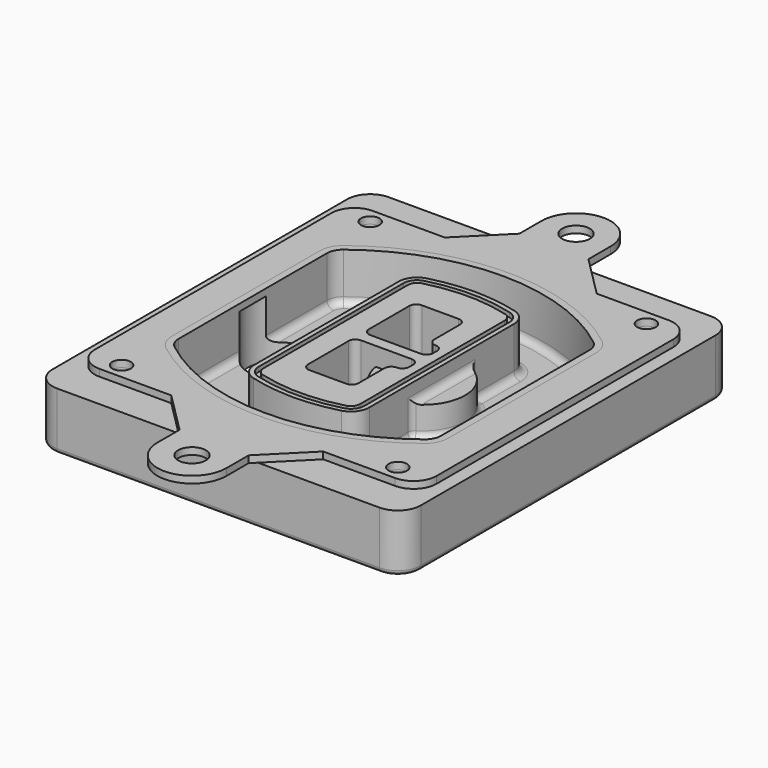
from build123d import *

# Parameters (mm, degrees)
F0_R      = 4
F1_DEPTH  = 25
F2_DEPTH  = 3
F3_DEPTH  = 18
F5_DEPTH  = 21
F6_DEPTH  = 2
F8_DEPTH  = 20
F9_DEPTH  = 16
F10_DEPTH = 25
F7_R      = 6
F7_R_2    = 4
F11_DEPTH = 6
F13_DEPTH = 9
F14_R     = 3
F15_R     = 2
F16_R     = 6
F16_R_2   = 4
F17_DEPTH = 3


with BuildPart() as f1:
    # F0 (on Top) → F1 (new body)
    with BuildSketch(Plane.XY):
        with BuildLine():
            ThreePointArc((-80, -80), (-77.0710678119, -87.0710678119), (-70, -90))
            Line((-70, -90), (70, -90))
            ThreePointArc((70, -90), (77.0710678119, -87.0710678119), (80, -80))
            Line((80, -80), (80, 80))
            ThreePointArc((80, 80), (77.0710678119, 87.0710678119), (70, 90))
            Line((70, 90), (-70, 90))
            ThreePointArc((-70, 90), (-77.0710678119, 87.0710678119), (-80, 80))
            Line((-80, 80), (-80, -80))
        make_face()
        with Locations((-60, -67.5)):
            Circle(F0_R, mode=Mode.SUBTRACT)
        with Locations((60, -67.5)):
            Circle(F0_R, mode=Mode.SUBTRACT)
        with Locations((-60, 67.5)):
            Circle(F0_R, mode=Mode.SUBTRACT)
        with BuildLine():
            ThreePointArc((-64, 40.2934422872), (-62.5820384798, 46.4328484224), (-58.6153846154, 51.3286200352))
            ThreePointArc((-58.6153846154, 51.3286200352), (0, 71.5), (58.6153846154, 51.3286200352))
            ThreePointArc((58.6153846154, 51.3286200352), (62.5820384798, 46.4328484224), (64, 40.2934422872))
            Line((64, 40.2934422872), (64, -40.2934422872))
            ThreePointArc((64, -40.2934422872), (62.5820384798, -46.4328484224), (58.6153846154, -51.3286200352))
            ThreePointArc((58.6153846154, -51.3286200352), (0, -71.5), (-58.6153846154, -51.3286200352))
            ThreePointArc((-58.6153846154, -51.3286200352), (-62.5820384798, -46.4328484224), (-64, -40.2934422872))
            Line((-64, -40.2934422872), (-64, 40.2934422872))
        make_face(mode=Mode.SUBTRACT)
        with Locations((60, 67.5)):
            Circle(F0_R, mode=Mode.SUBTRACT)
        with BuildLine():
            ThreePointArc((58.6153846154, 51.3286200352), (0, 71.5), (-58.6153846154, 51.3286200352))
            ThreePointArc((-58.6153846154, 51.3286200352), (-62.5820384798, 46.4328484224), (-64, 40.2934422872))
            Line((-64, 40.2934422872), (-64, -40.2934422872))
            ThreePointArc((-64, -40.2934422872), (-62.5820384798, -46.4328484224), (-58.6153846154, -51.3286200352))
            ThreePointArc((-58.6153846154, -51.3286200352), (0, -71.5), (58.6153846154, -51.3286200352))
            ThreePointArc((58.6153846154, -51.3286200352), (62.5820384798, -46.4328484224), (64, -40.2934422872))
            Line((64, -40.2934422872), (64, 40.2934422872))
            ThreePointArc((64, 40.2934422872), (62.5820384798, 46.4328484224), (58.6153846154, 51.3286200352))
        make_face()
        with BuildLine():
            Line((-60, -40.2934422872), (-60, 40.2934422872))
            ThreePointArc((-60, 40.2934422872), (-58.9871703427, 44.6787323838), (-56.1538461538, 48.1757121072))
            ThreePointArc((-56.1538461538, 48.1757121072), (0, 67.5), (56.1538461538, 48.1757121072))
            ThreePointArc((56.1538461538, 48.1757121072), (58.9871703427, 44.6787323838), (60, 40.2934422872))
            Line((60, 40.2934422872), (60, -40.2934422872))
            ThreePointArc((60, -40.2934422872), (58.9871703427, -44.6787323838), (56.1538461538, -48.1757121072))
            ThreePointArc((56.1538461538, -48.1757121072), (0, -67.5), (-56.1538461538, -48.1757121072))
            ThreePointArc((-56.1538461538, -48.1757121072), (-58.9871703427, -44.6787323838), (-60, -40.2934422872))
        make_face(mode=Mode.SUBTRACT)
        with BuildLine():
            ThreePointArc((-56.1538461538, 48.1757121072), (-58.9871703427, 44.6787323838), (-60, 40.2934422872))
            Line((-60, 40.2934422872), (-60, -40.2934422872))
            ThreePointArc((-60, -40.2934422872), (-58.9871703427, -44.6787323838), (-56.1538461538, -48.1757121072))
            ThreePointArc((-56.1538461538, -48.1757121072), (0, -67.5), (56.1538461538, -48.1757121072))
            ThreePointArc((56.1538461538, -48.1757121072), (58.9871703427, -44.6787323838), (60, -40.2934422872))
            Line((60, -40.2934422872), (60, 40.2934422872))
            ThreePointArc((60, 40.2934422872), (58.9871703427, 44.6787323838), (56.1538461538, 48.1757121072))
            ThreePointArc((56.1538461538, 48.1757121072), (0, 67.5), (-56.1538461538, 48.1757121072))
        make_face()
        with BuildLine():
            ThreePointArc((54.3076923077, 45.8110311612), (56.2910192399, 43.3631453548), (57, 40.2934422872))
            Line((57, 40.2934422872), (57, -40.2934422872))
            ThreePointArc((57, -40.2934422872), (56.2910192399, -43.3631453548), (54.3076923077, -45.8110311612))
            ThreePointArc((54.3076923077, -45.8110311612), (0, -64.5), (-54.3076923077, -45.8110311612))
            ThreePointArc((-54.3076923077, -45.8110311612), (-56.2910192399, -43.3631453548), (-57, -40.2934422872))
            Line((-57, -40.2934422872), (-57, 40.2934422872))
            ThreePointArc((-57, 40.2934422872), (-56.2910192399, 43.3631453548), (-54.3076923077, 45.8110311612))
            ThreePointArc((-54.3076923077, 45.8110311612), (0, 64.5), (54.3076923077, 45.8110311612))
        make_face(mode=Mode.SUBTRACT)
        with BuildLine():
            Line((57, -40.2934422872), (57, 40.2934422872))
            ThreePointArc((57, 40.2934422872), (56.2910192399, 43.3631453548), (54.3076923077, 45.8110311612))
            ThreePointArc((54.3076923077, 45.8110311612), (0, 64.5), (-54.3076923077, 45.8110311612))
            ThreePointArc((-54.3076923077, 45.8110311612), (-56.2910192399, 43.3631453548), (-57, 40.2934422872))
            Line((-57, 40.2934422872), (-57, -40.2934422872))
            ThreePointArc((-57, -40.2934422872), (-56.2910192399, -43.3631453548), (-54.3076923077, -45.8110311612))
            ThreePointArc((-54.3076923077, -45.8110311612), (0, -64.5), (54.3076923077, -45.8110311612))
            ThreePointArc((54.3076923077, -45.8110311612), (56.2910192399, -43.3631453548), (57, -40.2934422872))
        make_face()
    extrude(amount=-F1_DEPTH)

    # F0 (on Top) → F2 (join)
    with BuildSketch(Plane.XY):
        with BuildLine():
            ThreePointArc((-56.1538461538, 48.1757121072), (-58.9871703427, 44.6787323838), (-60, 40.2934422872))
            Line((-60, 40.2934422872), (-60, -40.2934422872))
            ThreePointArc((-60, -40.2934422872), (-58.9871703427, -44.6787323838), (-56.1538461538, -48.1757121072))
            ThreePointArc((-56.1538461538, -48.1757121072), (0, -67.5), (56.1538461538, -48.1757121072))
            ThreePointArc((56.1538461538, -48.1757121072), (58.9871703427, -44.6787323838), (60, -40.2934422872))
            Line((60, -40.2934422872), (60, 40.2934422872))
            ThreePointArc((60, 40.2934422872), (58.9871703427, 44.6787323838), (56.1538461538, 48.1757121072))
            ThreePointArc((56.1538461538, 48.1757121072), (0, 67.5), (-56.1538461538, 48.1757121072))
        make_face()
        with BuildLine():
            ThreePointArc((54.3076923077, 45.8110311612), (56.2910192399, 43.3631453548), (57, 40.2934422872))
            Line((57, 40.2934422872), (57, -40.2934422872))
            ThreePointArc((57, -40.2934422872), (56.2910192399, -43.3631453548), (54.3076923077, -45.8110311612))
            ThreePointArc((54.3076923077, -45.8110311612), (0, -64.5), (-54.3076923077, -45.8110311612))
            ThreePointArc((-54.3076923077, -45.8110311612), (-56.2910192399, -43.3631453548), (-57, -40.2934422872))
            Line((-57, -40.2934422872), (-57, 40.2934422872))
            ThreePointArc((-57, 40.2934422872), (-56.2910192399, 43.3631453548), (-54.3076923077, 45.8110311612))
            ThreePointArc((-54.3076923077, 45.8110311612), (0, 64.5), (54.3076923077, 45.8110311612))
        make_face(mode=Mode.SUBTRACT)
    extrude(amount=F2_DEPTH)

    # F0 (on Top) → F3 (cut)
    with BuildSketch(Plane.XY):
        with BuildLine():
            Line((57, -40.2934422872), (57, 40.2934422872))
            ThreePointArc((57, 40.2934422872), (56.2910192399, 43.3631453548), (54.3076923077, 45.8110311612))
            ThreePointArc((54.3076923077, 45.8110311612), (0, 64.5), (-54.3076923077, 45.8110311612))
            ThreePointArc((-54.3076923077, 45.8110311612), (-56.2910192399, 43.3631453548), (-57, 40.2934422872))
            Line((-57, 40.2934422872), (-57, -40.2934422872))
            ThreePointArc((-57, -40.2934422872), (-56.2910192399, -43.3631453548), (-54.3076923077, -45.8110311612))
            ThreePointArc((-54.3076923077, -45.8110311612), (0, -64.5), (54.3076923077, -45.8110311612))
            ThreePointArc((54.3076923077, -45.8110311612), (56.2910192399, -43.3631453548), (57, -40.2934422872))
        make_face()
    extrude(amount=-F3_DEPTH, mode=Mode.SUBTRACT)

    # F4 (on face) → F5 (join, through all)
    with BuildSketch(Plane.XY.offset(3)):
        with BuildLine():
            ThreePointArc((-25, -39.2465276821), (-23.3511545998, -44.1109737193), (-19.0842911877, -46.9702398883))
            ThreePointArc((-19.0842911877, -46.9702398883), (0, -49.5), (19.0842911877, -46.9702398883))
            ThreePointArc((19.0842911877, -46.9702398883), (23.3511545998, -44.1109737193), (25, -39.2465276821))
            Line((25, -39.2465276821), (25, 39.2465276821))
            ThreePointArc((25, 39.2465276821), (23.3511545998, 44.1109737193), (19.0842911877, 46.9702398883))
            ThreePointArc((19.0842911877, 46.9702398883), (0, 49.5), (-19.0842911877, 46.9702398883))
            ThreePointArc((-19.0842911877, 46.9702398883), (-23.3511545998, 44.1109737193), (-25, 39.2465276821))
            Line((-25, 39.2465276821), (-25, -39.2465276821))
        make_face()
        with BuildLine():
            ThreePointArc((18.5632183908, 45.0393118368), (21.7633659499, 42.89486221), (23, 39.2465276821))
            Line((23, 39.2465276821), (23, -39.2465276821))
            ThreePointArc((23, -39.2465276821), (21.7633659499, -42.89486221), (18.5632183908, -45.0393118368))
            ThreePointArc((18.5632183908, -45.0393118368), (0, -47.5), (-18.5632183908, -45.0393118368))
            ThreePointArc((-18.5632183908, -45.0393118368), (-21.7633659499, -42.89486221), (-23, -39.2465276821))
            Line((-23, -39.2465276821), (-23, 39.2465276821))
            ThreePointArc((-23, 39.2465276821), (-21.7633659499, 42.89486221), (-18.5632183908, 45.0393118368))
            ThreePointArc((-18.5632183908, 45.0393118368), (0, 47.5), (18.5632183908, 45.0393118368))
        make_face(mode=Mode.SUBTRACT)
        with BuildLine():
            Line((23, -39.2465276821), (23, 39.2465276821))
            ThreePointArc((23, 39.2465276821), (21.7633659499, 42.89486221), (18.5632183908, 45.0393118368))
            ThreePointArc((18.5632183908, 45.0393118368), (0, 47.5), (-18.5632183908, 45.0393118368))
            ThreePointArc((-18.5632183908, 45.0393118368), (-21.7633659499, 42.89486221), (-23, 39.2465276821))
            Line((-23, 39.2465276821), (-23, -39.2465276821))
            ThreePointArc((-23, -39.2465276821), (-21.7633659499, -42.89486221), (-18.5632183908, -45.0393118368))
            ThreePointArc((-18.5632183908, -45.0393118368), (0, -47.5), (18.5632183908, -45.0393118368))
            ThreePointArc((18.5632183908, -45.0393118368), (21.7633659499, -42.89486221), (23, -39.2465276821))
        make_face()
        with BuildLine():
            ThreePointArc((18.0421455939, 43.1083837852), (20.1755772999, 41.6787507007), (21, 39.2465276821))
            Line((21, 39.2465276821), (21, -39.2465276821))
            ThreePointArc((21, -39.2465276821), (20.1755772999, -41.6787507007), (18.0421455939, -43.1083837852))
            ThreePointArc((18.0421455939, -43.1083837852), (0, -45.5), (-18.0421455939, -43.1083837852))
            ThreePointArc((-18.0421455939, -43.1083837852), (-20.1755772999, -41.6787507007), (-21, -39.2465276821))
            Line((-21, -39.2465276821), (-21, 39.2465276821))
            ThreePointArc((-21, 39.2465276821), (-20.1755772999, 41.6787507007), (-18.0421455939, 43.1083837852))
            ThreePointArc((-18.0421455939, 43.1083837852), (0, 45.5), (18.0421455939, 43.1083837852))
        make_face(mode=Mode.SUBTRACT)
        with BuildLine():
            Line((21, -39.2465276821), (21, 39.2465276821))
            ThreePointArc((21, 39.2465276821), (20.1755772999, 41.6787507007), (18.0421455939, 43.1083837852))
            ThreePointArc((18.0421455939, 43.1083837852), (0, 45.5), (-18.0421455939, 43.1083837852))
            ThreePointArc((-18.0421455939, 43.1083837852), (-20.1755772999, 41.6787507007), (-21, 39.2465276821))
            Line((-21, 39.2465276821), (-21, -39.2465276821))
            ThreePointArc((-21, -39.2465276821), (-20.1755772999, -41.6787507007), (-18.0421455939, -43.1083837852))
            ThreePointArc((-18.0421455939, -43.1083837852), (0, -45.5), (18.0421455939, -43.1083837852))
            ThreePointArc((18.0421455939, -43.1083837852), (20.1755772999, -41.6787507007), (21, -39.2465276821))
        make_face()
        with BuildLine():
            Line((-8, -2.5), (14, -2.5))
            ThreePointArc((14, -2.5), (16.1213203436, -3.3786796564), (17, -5.5))
            Line((17, -5.5), (17, -7.5))
            ThreePointArc((17, -7.5), (16.1213203436, -9.6213203436), (14, -10.5))
            ThreePointArc((14, -10.5), (11.8786796564, -11.3786796564), (11, -13.5))
            Line((11, -13.5), (11, -27.5))
            ThreePointArc((11, -27.5), (10.1213203436, -29.6213203436), (8, -30.5))
            Line((8, -30.5), (-8, -30.5))
            ThreePointArc((-8, -30.5), (-10.1213203436, -29.6213203436), (-11, -27.5))
            Line((-11, -27.5), (-11, -5.5))
            ThreePointArc((-11, -5.5), (-10.1213203436, -3.3786796564), (-8, -2.5))
        make_face(mode=Mode.SUBTRACT)
        with BuildLine():
            ThreePointArc((-8, 2.5), (-10.1213203436, 3.3786796564), (-11, 5.5))
            Line((-11, 5.5), (-11, 27.5))
            ThreePointArc((-11, 27.5), (-10.1213203436, 29.6213203436), (-8, 30.5))
            Line((-8, 30.5), (8, 30.5))
            ThreePointArc((8, 30.5), (10.1213203436, 29.6213203436), (11, 27.5))
            Line((11, 27.5), (11, 13.5))
            ThreePointArc((11, 13.5), (11.8786796564, 11.3786796564), (14, 10.5))
            ThreePointArc((14, 10.5), (16.1213203436, 9.6213203436), (17, 7.5))
            Line((17, 7.5), (17, 5.5))
            ThreePointArc((17, 5.5), (16.1213203436, 3.3786796564), (14, 2.5))
            Line((14, 2.5), (-8, 2.5))
        make_face(mode=Mode.SUBTRACT)
    extrude(amount=-F5_DEPTH)

    # F4 (on face) → F6 (cut)
    with BuildSketch(Plane.XY.offset(3)):
        with BuildLine():
            Line((23, -39.2465276821), (23, 39.2465276821))
            ThreePointArc((23, 39.2465276821), (21.7633659499, 42.89486221), (18.5632183908, 45.0393118368))
            ThreePointArc((18.5632183908, 45.0393118368), (0, 47.5), (-18.5632183908, 45.0393118368))
            ThreePointArc((-18.5632183908, 45.0393118368), (-21.7633659499, 42.89486221), (-23, 39.2465276821))
            Line((-23, 39.2465276821), (-23, -39.2465276821))
            ThreePointArc((-23, -39.2465276821), (-21.7633659499, -42.89486221), (-18.5632183908, -45.0393118368))
            ThreePointArc((-18.5632183908, -45.0393118368), (0, -47.5), (18.5632183908, -45.0393118368))
            ThreePointArc((18.5632183908, -45.0393118368), (21.7633659499, -42.89486221), (23, -39.2465276821))
        make_face()
        with BuildLine():
            ThreePointArc((18.0421455939, 43.1083837852), (20.1755772999, 41.6787507007), (21, 39.2465276821))
            Line((21, 39.2465276821), (21, -39.2465276821))
            ThreePointArc((21, -39.2465276821), (20.1755772999, -41.6787507007), (18.0421455939, -43.1083837852))
            ThreePointArc((18.0421455939, -43.1083837852), (0, -45.5), (-18.0421455939, -43.1083837852))
            ThreePointArc((-18.0421455939, -43.1083837852), (-20.1755772999, -41.6787507007), (-21, -39.2465276821))
            Line((-21, -39.2465276821), (-21, 39.2465276821))
            ThreePointArc((-21, 39.2465276821), (-20.1755772999, 41.6787507007), (-18.0421455939, 43.1083837852))
            ThreePointArc((-18.0421455939, 43.1083837852), (0, 45.5), (18.0421455939, 43.1083837852))
        make_face(mode=Mode.SUBTRACT)
    extrude(amount=-F6_DEPTH, mode=Mode.SUBTRACT)

    # F7 (on face) → F8 (join)
    with BuildSketch(Plane(origin=(0, 0, -25), x_dir=(1, 0, 0), z_dir=(0, 0, -1))):
        with BuildLine():
            ThreePointArc((3.28842436, 0), (16.7567035675, 13.4682792075), (30.224982775, 0))
            Line((30.224982775, 0), (35.224982775, 0))
            ThreePointArc((35.224982775, 0), (16.7567035675, 18.4682792075), (-1.71157564, 0))
            Line((-1.71157564, 0), (3.28842436, 0))
        make_face()
        with BuildLine():
            Line((3.28842436, 0), (30.224982775, 0))
            ThreePointArc((30.224982775, 0), (16.7567035675, 13.4682792075), (3.28842436, 0))
        make_face()
        with BuildLine():
            ThreePointArc((3.28842436, 0), (16.7567035675, -13.4682792075), (30.224982775, 0))
            Line((30.224982775, 0), (3.28842436, 0))
        make_face()
        with BuildLine():
            Line((35.224982775, 0), (30.224982775, 0))
            ThreePointArc((30.224982775, 0), (16.7567035675, -13.4682792075), (3.28842436, 0))
            Line((3.28842436, 0), (-1.71157564, 0))
            ThreePointArc((-1.71157564, 0), (16.7567035675, -18.4682792075), (35.224982775, 0))
        make_face()
    extrude(amount=-F8_DEPTH)

    # F7 (on face) → F9 (cut)
    with BuildSketch(Plane(origin=(0, 0, -25), x_dir=(1, 0, 0), z_dir=(0, 0, -1))):
        with BuildLine():
            Line((3.28842436, 0), (30.224982775, 0))
            ThreePointArc((30.224982775, 0), (16.7567035675, 13.4682792075), (3.28842436, 0))
        make_face()
        with BuildLine():
            ThreePointArc((3.28842436, 0), (16.7567035675, -13.4682792075), (30.224982775, 0))
            Line((30.224982775, 0), (3.28842436, 0))
        make_face()
    extrude(amount=-F9_DEPTH, mode=Mode.SUBTRACT)

    # F7 (on face) → F10 (cut)
    with BuildSketch(Plane(origin=(0, 0, -25), x_dir=(1, 0, 0), z_dir=(0, 0, -1))):
        with BuildLine():
            Line((-59.0318229325, 0), (-32.0952645175, 0))
            ThreePointArc((-32.0952645175, 0), (-45.563543725, 13.4682792075), (-59.0318229325, 0))
        make_face()
        with BuildLine():
            ThreePointArc((-59.0318229325, 0), (-45.563543725, -13.4682792075), (-32.0952645175, 0))
            Line((-32.0952645175, 0), (-59.0318229325, 0))
        make_face()
    extrude(amount=-F10_DEPTH, mode=Mode.SUBTRACT)

    # F7 (on face) → F11 (cut)
    with BuildSketch(Plane(origin=(0, 0, -25), x_dir=(1, 0, 0), z_dir=(0, 0, -1))):
        with Locations((60, -67.5)):
            Circle(F7_R)
        with Locations((60, -67.5)):
            Circle(F7_R_2, mode=Mode.SUBTRACT)
        with Locations((60, -67.5)):
            Circle(F7_R)
        with Locations((60, -67.5)):
            Circle(F7_R_2, mode=Mode.SUBTRACT)
        with Locations((-60, -67.5)):
            Circle(F7_R)
        with Locations((-60, -67.5)):
            Circle(F7_R_2, mode=Mode.SUBTRACT)
        with Locations((-60, -67.5)):
            Circle(F7_R)
        with Locations((-60, -67.5)):
            Circle(F7_R_2, mode=Mode.SUBTRACT)
        with Locations((-60, 67.5)):
            Circle(F7_R)
        with Locations((-60, 67.5)):
            Circle(F7_R_2, mode=Mode.SUBTRACT)
        with Locations((-60, 67.5)):
            Circle(F7_R)
        with Locations((-60, 67.5)):
            Circle(F7_R_2, mode=Mode.SUBTRACT)
        with Locations((60, 67.5)):
            Circle(F7_R)
        with Locations((60, 67.5)):
            Circle(F7_R_2, mode=Mode.SUBTRACT)
        with Locations((60, 67.5)):
            Circle(F7_R)
        with Locations((60, 67.5)):
            Circle(F7_R_2, mode=Mode.SUBTRACT)
    extrude(amount=-F11_DEPTH, mode=Mode.SUBTRACT)

    # F12 (on face) → F13 (cut, through all)
    with BuildSketch(Plane(origin=(0, 0, -9), x_dir=(1, 0, 0), z_dir=(0, 0, -1))):
        with BuildLine():
            Line((11, 13.5), (11, 17.5481537753))
            ThreePointArc((11, 17.5481537753), (2.5696536419, 11.8239143813), (-1.5415842455, 2.5))
            Line((-1.5415842455, 2.5), (3.5224848595, 2.5))
            ThreePointArc((3.5224848595, 2.5), (6.1857188154, 8.3455872281), (11.2536447004, 12.2927168648))
            ThreePointArc((11.2536447004, 12.2927168648), (11.0640958889, 12.8831798879), (11, 13.5))
        make_face()
        with BuildLine():
            ThreePointArc((11.2536447004, -12.2927168648), (6.1857188154, -8.3455872281), (3.5224848595, -2.5))
            Line((3.5224848595, -2.5), (-1.5415842455, -2.5))
            ThreePointArc((-1.5415842455, -2.5), (2.5696536419, -11.8239143813), (11, -17.5481537753))
            Line((11, -17.5481537753), (11, -13.5))
            ThreePointArc((11, -13.5), (11.0640958889, -12.8831798879), (11.2536447004, -12.2927168648))
        make_face()
        with BuildLine():
            ThreePointArc((11.2536447004, 12.2927168648), (6.1857188154, 8.3455872281), (3.5224848595, 2.5))
            Line((3.5224848595, 2.5), (14, 2.5))
            ThreePointArc((14, 2.5), (16.1213203436, 3.3786796564), (17, 5.5))
            Line((17, 5.5), (17, 7.5))
            ThreePointArc((17, 7.5), (16.1213203436, 9.6213203436), (14, 10.5))
            ThreePointArc((14, 10.5), (12.3601599782, 10.9878446101), (11.2536447004, 12.2927168648))
        make_face()
        with BuildLine():
            Line((14, -2.5), (3.5224848595, -2.5))
            ThreePointArc((3.5224848595, -2.5), (6.1857188154, -8.3455872281), (11.2536447004, -12.2927168648))
            ThreePointArc((11.2536447004, -12.2927168648), (12.3601599782, -10.9878446101), (14, -10.5))
            ThreePointArc((14, -10.5), (16.1213203436, -9.6213203436), (17, -7.5))
            Line((17, -7.5), (17, -5.5))
            ThreePointArc((17, -5.5), (16.1213203436, -3.3786796564), (14, -2.5))
        make_face()
    extrude(amount=F13_DEPTH, mode=Mode.SUBTRACT)

    # F14
    f14_edges = [f1.edges().sort_by_distance(p)[0] for p in [
        (-57, -23.703476, -18),
        (-57, 23.703476, -18),
        (25, 0, -5),
        (25, 16.526506, -11.5),
        (25, -16.526506, -11.5),
        (25, -27.886517, -18),
        (35.224983, 0, -18),
    ]]
    fillet(f14_edges, radius=F14_R)

    # F15
    f15_edges = [f1.edges().sort_by_distance(p)[0] for p in [
        (0, -90, -25),
    ]]
    fillet(f15_edges, radius=F15_R)


with BuildPart() as f17:
    # F16 (on face) → F17 (new body, through all)
    with BuildSketch(Plane.XY):
        with BuildLine():
            Line((-33, 74.25), (33, 74.25))
            Line((33, 74.25), (15, 92.25))
            Line((15, 92.25), (15, 104.25))
            ThreePointArc((15, 104.25), (0, 119.25), (-15, 104.25))
            Line((-15, 104.25), (-15, 92.25))
            Line((-15, 92.25), (-33, 74.25))
        make_face()
        with Locations((0, 104.25)):
            Circle(F16_R, mode=Mode.SUBTRACT)
        with BuildLine():
            Line((64.25, 74.25), (33, 74.25))
            Line((33, 74.25), (-33, 74.25))
            Line((-33, 74.25), (-64.25, 74.25))
            ThreePointArc((-64.25, 74.25), (-71.3210678119, 71.3210678119), (-74.25, 64.25))
            Line((-74.25, 64.25), (-74.25, -64.25))
            ThreePointArc((-74.25, -64.25), (-71.3210678119, -71.3210678119), (-64.25, -74.25))
            Line((-64.25, -74.25), (-33, -74.25))
            Line((-33, -74.25), (33, -74.25))
            Line((33, -74.25), (64.25, -74.25))
            ThreePointArc((64.25, -74.25), (71.3210678119, -71.3210678119), (74.25, -64.25))
            Line((74.25, -64.25), (74.25, 64.25))
            ThreePointArc((74.25, 64.25), (71.3210678119, 71.3210678119), (64.25, 74.25))
        make_face()
        with Locations((-60, -67.5)):
            Circle(F16_R_2, mode=Mode.SUBTRACT)
        with Locations((60, -67.5)):
            Circle(F16_R_2, mode=Mode.SUBTRACT)
        with Locations((-60, 67.5)):
            Circle(F16_R_2, mode=Mode.SUBTRACT)
        with BuildLine():
            ThreePointArc((-56.1538461538, 48.1757121072), (0, 67.5), (56.1538461538, 48.1757121072))
            ThreePointArc((56.1538461538, 48.1757121072), (58.9871703427, 44.6787323838), (60, 40.2934422872))
            Line((60, 40.2934422872), (60, -40.2934422872))
            ThreePointArc((60, -40.2934422872), (58.9871703427, -44.6787323838), (56.1538461538, -48.1757121072))
            ThreePointArc((56.1538461538, -48.1757121072), (0, -67.5), (-56.1538461538, -48.1757121072))
            ThreePointArc((-56.1538461538, -48.1757121072), (-58.9871703427, -44.6787323838), (-60, -40.2934422872))
            Line((-60, -40.2934422872), (-60, 40.2934422872))
            ThreePointArc((-60, 40.2934422872), (-58.9871703427, 44.6787323838), (-56.1538461538, 48.1757121072))
        make_face(mode=Mode.SUBTRACT)
        with Locations((60, 67.5)):
            Circle(F16_R_2, mode=Mode.SUBTRACT)
        with BuildLine():
            Line((15, -92.25), (33, -74.25))
            Line((33, -74.25), (-33, -74.25))
            Line((-33, -74.25), (-15, -92.25))
            Line((-15, -92.25), (-15, -104.25))
            ThreePointArc((-15, -104.25), (0, -119.25), (15, -104.25))
            Line((15, -104.25), (15, -92.25))
        make_face()
        with Locations((0, -104.25)):
            Circle(F16_R, mode=Mode.SUBTRACT)
    extrude(amount=F17_DEPTH)


solid = Compound([f1.part, f17.part])
